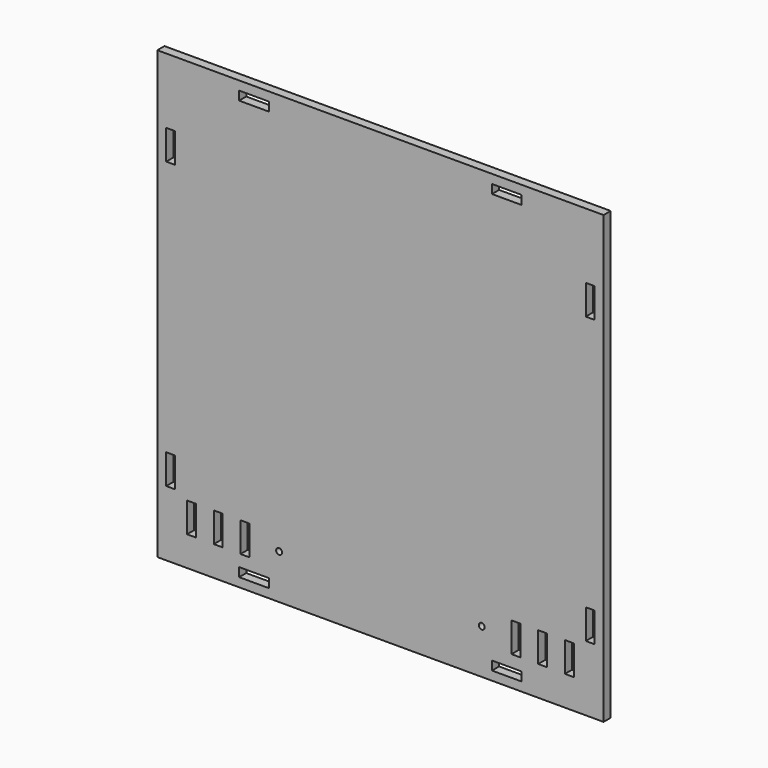
from build123d import *

# Parameters (mm, degrees)
F0_W     = 150
F0_H     = 150
F0_W_2   = 10
F0_H_2   = 2.98
F0_W_3   = 2.98
F0_H_3   = 10
F1_DEPTH = 3
F2_W     = 2.98
F2_H     = 5
F2_R     = 1
F2_H_2   = 10
F3_DEPTH = 3


with BuildPart() as f1:
    # F0 (on Front) → F1 (new body)
    with BuildSketch(Plane.XZ):
        Rectangle(F0_W, F0_H)
        with Locations((-42.5, -70.51)):
            Rectangle(F0_W_2, F0_H_2, mode=Mode.SUBTRACT)
        with Locations((-70.51, -48)):
            Rectangle(F0_W_3, F0_H_3, mode=Mode.SUBTRACT)
        with Locations((42.5, -70.51)):
            Rectangle(F0_W_2, F0_H_2, mode=Mode.SUBTRACT)
        with Locations((70.51, -48)):
            Rectangle(F0_W_3, F0_H_3, mode=Mode.SUBTRACT)
        with Locations((-70.51, 48)):
            Rectangle(F0_W_3, F0_H_3, mode=Mode.SUBTRACT)
        with Locations((-42.5, 70.51)):
            Rectangle(F0_W_2, F0_H_2, mode=Mode.SUBTRACT)
        with Locations((70.51, 48)):
            Rectangle(F0_W_3, F0_H_3, mode=Mode.SUBTRACT)
        with Locations((42.5, 70.51)):
            Rectangle(F0_W_2, F0_H_2, mode=Mode.SUBTRACT)
    extrude(amount=F1_DEPTH)

    # F2 (on face) → F3 (cut)
    with BuildSketch(Plane.XZ.offset(3)):
        Polygon((-62.02, -60), (-62.02, -55), (-65, -55), (-65, -65), (-62.02, -65), align=None)
        with BuildLine():
            ThreePointArc((-33.06, -60), (-34.06, -59), (-35.06, -60))
            Line((-35.06, -60), (-33.06, -60))
        make_face()
        with BuildLine():
            Line((-33.06, -60), (-35.06, -60))
            ThreePointArc((-35.06, -60), (-34.06, -61), (-33.06, -60))
        make_face()
        with Locations((-45.55, -57.5)):
            Rectangle(F2_W, F2_H)
        with Locations((-45.55, -62.5)):
            Rectangle(F2_W, F2_H)
        with Locations((-54.53, -57.5)):
            Rectangle(F2_W, F2_H)
        with Locations((-54.53, -62.5)):
            Rectangle(F2_W, F2_H)
        with Locations((34.06, -60)):
            Circle(F2_R)
        with Locations((45.55, -60)):
            Rectangle(F2_W, F2_H_2)
        with Locations((63.51, -60)):
            Rectangle(F2_W, F2_H_2)
        with Locations((54.53, -60)):
            Rectangle(F2_W, F2_H_2)
    extrude(amount=-F3_DEPTH, mode=Mode.SUBTRACT)


solid = f1.part
